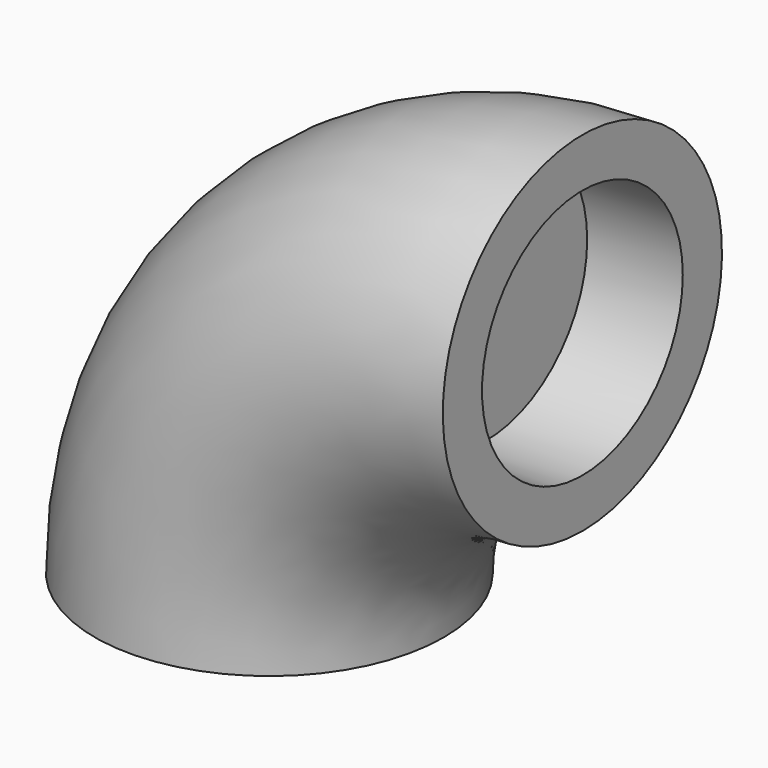
from build123d import *

# Parameters (mm, degrees)
F0_R     = 0.73
F1_ANGLE = 90
F2_R     = 0.525
F3_DEPTH = 0.4
F4_R     = 0.525
F5_DEPTH = 0.4


with BuildPart() as f1:
    # F0 (on Top) → F1 (revolve)
    with BuildSketch(Plane.XY):
        Circle(F0_R)
    revolve(axis=Axis((1.31, 0.311184, 0), (0, 1, 0)), revolution_arc=F1_ANGLE)

    # F2 (on face) → F3 (cut)
    with BuildSketch(Plane.YZ.offset(1.31)):
        with Locations((0, 1.31)):
            Circle(F2_R)
    extrude(amount=-F3_DEPTH, mode=Mode.SUBTRACT)

    # F4 (on face) → F5 (cut)
    with BuildSketch(Plane(origin=(0, 0, 0), x_dir=(1, 0, 0), z_dir=(0, 0, -1))):
        Circle(F4_R)
    extrude(amount=-F5_DEPTH, mode=Mode.SUBTRACT)


solid = f1.part
